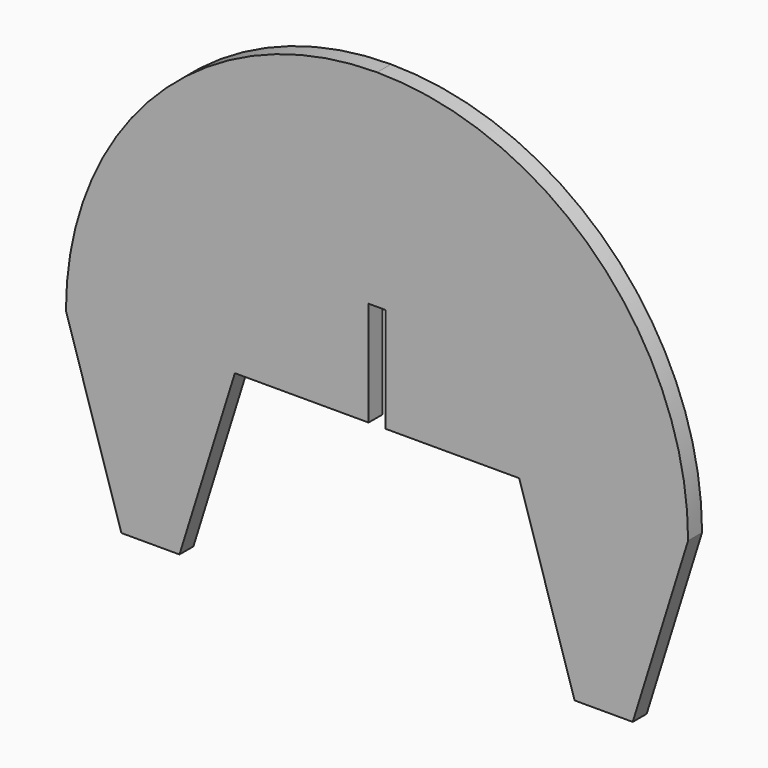
from build123d import *

# Parameters (mm, degrees)
F1_DEPTH = 3


with BuildPart() as f1:
    # F0 (on Front) → F1 (new body)
    with BuildSketch(Plane.XZ):
        with BuildLine():
            Line((43.975, -30.54954), (53.5, 0))
            ThreePointArc((53.5, 0), (37.830213, 37.830213), (0, 53.5))
            ThreePointArc((0, 53.5), (-37.830213, 37.830213), (-53.5, 0))
            Line((-53.5, 0), (-43.975, -30.54954))
            Line((-43.975, -30.54954), (-33.975, -30.54954))
            Line((-33.975, -30.54954), (-24.45, 0))
            Line((-24.45, 0), (-1.45, 0))
            Line((-1.45, 0), (-1.45, 18))
            Line((-1.45, 18), (0, 18))
            Line((0, 18), (1.45, 18))
            Line((1.45, 18), (1.45, 0))
            Line((1.45, 0), (24.45, 0))
            Line((24.45, 0), (33.975, -30.54954))
            Line((33.975, -30.54954), (43.975, -30.54954))
        make_face()
    extrude(amount=F1_DEPTH)


solid = f1.part
